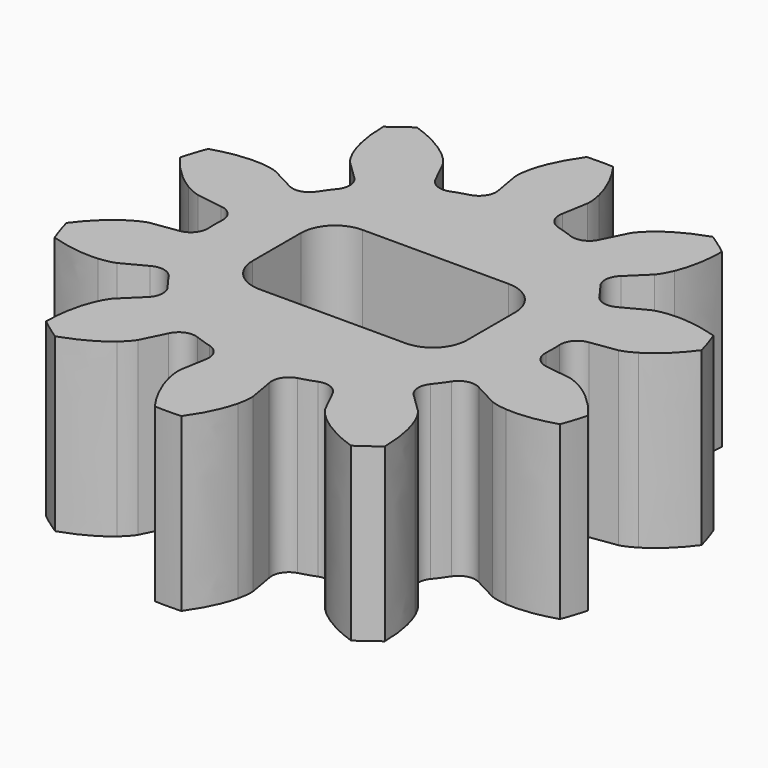
from build123d import *

# Parameters (mm, degrees)
PAD004_DEPTH            = 4
SKETCH009_W             = 3
SKETCH009_H             = 5
POCKET005_DEPTH         = 4.001
FILLET004_R             = 0.8
BODY002_PLACEMENT_ANGLE = 270


with BuildPart() as part:
    # InvoluteGear001 → Pad004 (new body)
    with BuildSketch(Plane.XY):
        with BuildLine():
            Line((4.272524, -0.742137), (4.876889, -0.84619))
            add(Edge.make_bspline(
                [(4.876889, -0.84619), (4.918975, -0.850036), (5.045186, -0.854884), (5.258416, -0.805769)],
                knots=[0, 0, 0, 0, 1, 1, 1, 1], degree=3))
            add(Edge.make_bspline(
                [(5.258416, -0.805769), (5.511581, -0.745593), (5.870271, -0.609625), (6.294091, -0.307696)],
                knots=[0, 0, 0, 0, 1, 1, 1, 1], degree=3))
            ThreePointArc((6.294091, -0.307696), (6.300805, 0.000385), (6.292446, 0.308426))
            add(Edge.make_bspline(
                [(6.292446, 0.308426), (5.870271, 0.609625), (5.511581, 0.745593), (5.258416, 0.805769)],
                knots=[0, 0, 0, 0, 1, 1, 1, 1], degree=3))
            add(Edge.make_bspline(
                [(5.258416, 0.805769), (5.045186, 0.854884), (4.918975, 0.850036), (4.876889, 0.84619)],
                knots=[0, 0, 0, 0, 1, 1, 1, 1], degree=3))
            Line((4.876889, 0.84619), (4.272524, 0.742137))
            ThreePointArc((4.272524, 0.742137), (3.980079, 0.790073), (3.801353, 1.026461))
            ThreePointArc((3.801353, 1.026461), (3.744785, 1.216754), (3.678698, 1.403955))
            ThreePointArc((3.678698, 1.403955), (3.684344, 1.700249), (3.892762, 1.910925))
            Line((3.892762, 1.910925), (4.442864, 2.181981))
            add(Edge.make_bspline(
                [(4.442864, 2.181981), (4.479173, 2.203607), (4.584129, 2.273871), (4.727767, 2.438939)],
                knots=[0, 0, 0, 0, 1, 1, 1, 1], degree=3))
            add(Edge.make_bspline(
                [(4.727767, 2.438939), (4.897212, 2.636429), (5.107478, 2.957262), (5.272886, 3.450643)],
                knots=[0, 0, 0, 0, 1, 1, 1, 1], degree=3))
            ThreePointArc((5.272886, 3.450643), (5.097232, 3.703832), (4.909407, 3.948129))
            add(Edge.make_bspline(
                [(4.909407, 3.948129), (4.39082, 3.943656), (4.020715, 3.842824), (3.780529, 3.7427)],
                knots=[0, 0, 0, 0, 1, 1, 1, 1], degree=3))
            add(Edge.make_bspline(
                [(3.780529, 3.7427), (3.579153, 3.657101), (3.479896, 3.578994), (3.448108, 3.551145)],
                knots=[0, 0, 0, 0, 1, 1, 1, 1], degree=3))
            Line((3.448108, 3.551145), (3.020327, 3.111729))
            ThreePointArc((3.020327, 3.111729), (2.755558, 2.978614), (2.47202, 3.064804))
            ThreePointArc((2.47202, 3.064804), (2.314404, 3.185504), (2.150905, 3.298107))
            ThreePointArc((2.150905, 3.298107), (1.981316, 3.541134), (2.026097, 3.834079))
            Line((2.026097, 3.834079), (2.311816, 4.37671))
            add(Edge.make_bspline(
                [(2.311816, 4.37671), (2.328479, 4.415548), (2.372091, 4.534083), (2.391272, 4.752055)],
                knots=[0, 0, 0, 0, 1, 1, 1, 1], degree=3))
            add(Edge.make_bspline(
                [(2.391272, 4.752055), (2.412273, 5.011425), (2.393801, 5.394575), (2.237618, 5.890953)],
                knots=[0, 0, 0, 0, 1, 1, 1, 1], degree=3))
            ThreePointArc((2.237618, 5.890953), (1.94669, 5.992541), (1.651142, 6.07978))
            add(Edge.make_bspline(
                [(1.651142, 6.07978), (1.234226, 5.771344), (0.994071, 5.472226), (0.858608, 5.250047)],
                knots=[0, 0, 0, 0, 1, 1, 1, 1], degree=3))
            add(Edge.make_bspline(
                [(0.858608, 5.250047), (0.746006, 5.06243), (0.711615, 4.940899), (0.702267, 4.899684)],
                knots=[0, 0, 0, 0, 1, 1, 1, 1], degree=3))
            Line((0.702267, 4.899684), (0.614468, 4.292745))
            ThreePointArc((0.614468, 4.292745), (0.478508, 4.029426), (0.19846, 3.932495))
            ThreePointArc((0.19846, 3.932495), (0, 3.9375), (-0.19846, 3.932495))
            ThreePointArc((-0.19846, 3.932495), (-0.478508, 4.029426), (-0.614468, 4.292745))
            Line((-0.614468, 4.292745), (-0.702267, 4.899684))
            add(Edge.make_bspline(
                [(-0.702267, 4.899684), (-0.711615, 4.940899), (-0.746006, 5.06243), (-0.858608, 5.250047)],
                knots=[0, 0, 0, 0, 1, 1, 1, 1], degree=3))
            add(Edge.make_bspline(
                [(-0.858608, 5.250047), (-0.994071, 5.472226), (-1.234226, 5.771344), (-1.652345, 6.08112)],
                knots=[0, 0, 0, 0, 1, 1, 1, 1], degree=3))
            ThreePointArc((-1.652345, 6.08112), (-1.947422, 5.992303), (-2.237803, 5.889163))
            add(Edge.make_bspline(
                [(-2.237803, 5.889163), (-2.393801, 5.394575), (-2.412273, 5.011425), (-2.391272, 4.752055)],
                knots=[0, 0, 0, 0, 1, 1, 1, 1], degree=3))
            add(Edge.make_bspline(
                [(-2.391272, 4.752055), (-2.372091, 4.534083), (-2.328479, 4.415548), (-2.311816, 4.37671)],
                knots=[0, 0, 0, 0, 1, 1, 1, 1], degree=3))
            Line((-2.311816, 4.37671), (-2.026097, 3.834079))
            ThreePointArc((-2.026097, 3.834079), (-1.981316, 3.541134), (-2.150905, 3.298107))
            ThreePointArc((-2.150905, 3.298107), (-2.314404, 3.185504), (-2.47202, 3.064804))
            ThreePointArc((-2.47202, 3.064804), (-2.755558, 2.978614), (-3.020327, 3.111729))
            Line((-3.020327, 3.111729), (-3.448108, 3.551145))
            add(Edge.make_bspline(
                [(-3.448108, 3.551145), (-3.479896, 3.578994), (-3.579153, 3.657101), (-3.780529, 3.7427)],
                knots=[0, 0, 0, 0, 1, 1, 1, 1], degree=3))
            add(Edge.make_bspline(
                [(-3.780529, 3.7427), (-4.020715, 3.842824), (-4.39082, 3.943656), (-4.911168, 3.948506)],
                knots=[0, 0, 0, 0, 1, 1, 1, 1], degree=3))
            ThreePointArc((-4.911168, 3.948506), (-5.097685, 3.703209), (-5.271984, 3.449085))
            add(Edge.make_bspline(
                [(-5.271984, 3.449085), (-5.107478, 2.957262), (-4.897212, 2.636429), (-4.727767, 2.438939)],
                knots=[0, 0, 0, 0, 1, 1, 1, 1], degree=3))
            add(Edge.make_bspline(
                [(-4.727767, 2.438939), (-4.584129, 2.273871), (-4.479173, 2.203607), (-4.442864, 2.181981)],
                knots=[0, 0, 0, 0, 1, 1, 1, 1], degree=3))
            Line((-4.442864, 2.181981), (-3.892762, 1.910925))
            ThreePointArc((-3.892762, 1.910925), (-3.684344, 1.700249), (-3.678698, 1.403955))
            ThreePointArc((-3.678698, 1.403955), (-3.744785, 1.216754), (-3.801353, 1.026461))
            ThreePointArc((-3.801353, 1.026461), (-3.980079, 0.790073), (-4.272524, 0.742137))
            Line((-4.272524, 0.742137), (-4.876889, 0.84619))
            add(Edge.make_bspline(
                [(-4.876889, 0.84619), (-4.918975, 0.850036), (-5.045186, 0.854884), (-5.258416, 0.805769)],
                knots=[0, 0, 0, 0, 1, 1, 1, 1], degree=3))
            add(Edge.make_bspline(
                [(-5.258416, 0.805769), (-5.511581, 0.745593), (-5.870271, 0.609625), (-6.294091, 0.307696)],
                knots=[0, 0, 0, 0, 1, 1, 1, 1], degree=3))
            ThreePointArc((-6.294091, 0.307696), (-6.300805, -0.000385), (-6.292446, -0.308426))
            add(Edge.make_bspline(
                [(-6.292446, -0.308426), (-5.870271, -0.609625), (-5.511581, -0.745593), (-5.258416, -0.805769)],
                knots=[0, 0, 0, 0, 1, 1, 1, 1], degree=3))
            add(Edge.make_bspline(
                [(-5.258416, -0.805769), (-5.045186, -0.854884), (-4.918975, -0.850036), (-4.876889, -0.84619)],
                knots=[0, 0, 0, 0, 1, 1, 1, 1], degree=3))
            Line((-4.876889, -0.84619), (-4.272524, -0.742137))
            ThreePointArc((-4.272524, -0.742137), (-3.980079, -0.790073), (-3.801353, -1.026461))
            ThreePointArc((-3.801353, -1.026461), (-3.744785, -1.216754), (-3.678698, -1.403955))
            ThreePointArc((-3.678698, -1.403955), (-3.684344, -1.700249), (-3.892762, -1.910925))
            Line((-3.892762, -1.910925), (-4.442864, -2.181981))
            add(Edge.make_bspline(
                [(-4.442864, -2.181981), (-4.479173, -2.203607), (-4.584129, -2.273871), (-4.727767, -2.438939)],
                knots=[0, 0, 0, 0, 1, 1, 1, 1], degree=3))
            add(Edge.make_bspline(
                [(-4.727767, -2.438939), (-4.897212, -2.636429), (-5.107478, -2.957262), (-5.272886, -3.450643)],
                knots=[0, 0, 0, 0, 1, 1, 1, 1], degree=3))
            ThreePointArc((-5.272886, -3.450643), (-5.097232, -3.703832), (-4.909407, -3.948129))
            add(Edge.make_bspline(
                [(-4.909407, -3.948129), (-4.39082, -3.943656), (-4.020715, -3.842824), (-3.780529, -3.7427)],
                knots=[0, 0, 0, 0, 1, 1, 1, 1], degree=3))
            add(Edge.make_bspline(
                [(-3.780529, -3.7427), (-3.579153, -3.657101), (-3.479896, -3.578994), (-3.448108, -3.551145)],
                knots=[0, 0, 0, 0, 1, 1, 1, 1], degree=3))
            Line((-3.448108, -3.551145), (-3.020327, -3.111729))
            ThreePointArc((-3.020327, -3.111729), (-2.755558, -2.978614), (-2.47202, -3.064804))
            ThreePointArc((-2.47202, -3.064804), (-2.314404, -3.185504), (-2.150905, -3.298107))
            ThreePointArc((-2.150905, -3.298107), (-1.981316, -3.541134), (-2.026097, -3.834079))
            Line((-2.026097, -3.834079), (-2.311816, -4.37671))
            add(Edge.make_bspline(
                [(-2.311816, -4.37671), (-2.328479, -4.415548), (-2.372091, -4.534083), (-2.391272, -4.752055)],
                knots=[0, 0, 0, 0, 1, 1, 1, 1], degree=3))
            add(Edge.make_bspline(
                [(-2.391272, -4.752055), (-2.412273, -5.011425), (-2.393801, -5.394575), (-2.237618, -5.890953)],
                knots=[0, 0, 0, 0, 1, 1, 1, 1], degree=3))
            ThreePointArc((-2.237618, -5.890953), (-1.94669, -5.992541), (-1.651142, -6.07978))
            add(Edge.make_bspline(
                [(-1.651142, -6.07978), (-1.234226, -5.771344), (-0.994071, -5.472226), (-0.858608, -5.250047)],
                knots=[0, 0, 0, 0, 1, 1, 1, 1], degree=3))
            add(Edge.make_bspline(
                [(-0.858608, -5.250047), (-0.746006, -5.06243), (-0.711615, -4.940899), (-0.702267, -4.899684)],
                knots=[0, 0, 0, 0, 1, 1, 1, 1], degree=3))
            Line((-0.702267, -4.899684), (-0.614468, -4.292745))
            ThreePointArc((-0.614468, -4.292745), (-0.478508, -4.029426), (-0.19846, -3.932495))
            ThreePointArc((-0.19846, -3.932495), (0, -3.9375), (0.19846, -3.932495))
            ThreePointArc((0.19846, -3.932495), (0.478508, -4.029426), (0.614468, -4.292745))
            Line((0.614468, -4.292745), (0.702267, -4.899684))
            add(Edge.make_bspline(
                [(0.702267, -4.899684), (0.711615, -4.940899), (0.746006, -5.06243), (0.858608, -5.250047)],
                knots=[0, 0, 0, 0, 1, 1, 1, 1], degree=3))
            add(Edge.make_bspline(
                [(0.858608, -5.250047), (0.994071, -5.472226), (1.234226, -5.771344), (1.652345, -6.08112)],
                knots=[0, 0, 0, 0, 1, 1, 1, 1], degree=3))
            ThreePointArc((1.652345, -6.08112), (1.947422, -5.992303), (2.237803, -5.889163))
            add(Edge.make_bspline(
                [(2.237803, -5.889163), (2.393801, -5.394575), (2.412273, -5.011425), (2.391272, -4.752055)],
                knots=[0, 0, 0, 0, 1, 1, 1, 1], degree=3))
            add(Edge.make_bspline(
                [(2.391272, -4.752055), (2.372091, -4.534083), (2.328479, -4.415548), (2.311816, -4.37671)],
                knots=[0, 0, 0, 0, 1, 1, 1, 1], degree=3))
            Line((2.311816, -4.37671), (2.026097, -3.834079))
            ThreePointArc((2.026097, -3.834079), (1.981316, -3.541134), (2.150905, -3.298107))
            ThreePointArc((2.150905, -3.298107), (2.314404, -3.185504), (2.47202, -3.064804))
            ThreePointArc((2.47202, -3.064804), (2.755558, -2.978614), (3.020327, -3.111729))
            Line((3.020327, -3.111729), (3.448108, -3.551145))
            add(Edge.make_bspline(
                [(3.448108, -3.551145), (3.479896, -3.578994), (3.579153, -3.657101), (3.780529, -3.7427)],
                knots=[0, 0, 0, 0, 1, 1, 1, 1], degree=3))
            add(Edge.make_bspline(
                [(3.780529, -3.7427), (4.020715, -3.842824), (4.39082, -3.943656), (4.911168, -3.948506)],
                knots=[0, 0, 0, 0, 1, 1, 1, 1], degree=3))
            ThreePointArc((4.911168, -3.948506), (5.097685, -3.703209), (5.271984, -3.449085))
            add(Edge.make_bspline(
                [(5.271984, -3.449085), (5.107478, -2.957262), (4.897212, -2.636429), (4.727767, -2.438939)],
                knots=[0, 0, 0, 0, 1, 1, 1, 1], degree=3))
            add(Edge.make_bspline(
                [(4.727767, -2.438939), (4.584129, -2.273871), (4.479173, -2.203607), (4.442864, -2.181981)],
                knots=[0, 0, 0, 0, 1, 1, 1, 1], degree=3))
            Line((4.442864, -2.181981), (3.892762, -1.910925))
            ThreePointArc((3.892762, -1.910925), (3.684344, -1.700249), (3.678698, -1.403955))
            ThreePointArc((3.678698, -1.403955), (3.744785, -1.216754), (3.801353, -1.026461))
            ThreePointArc((3.801353, -1.026461), (3.980079, -0.790073), (4.272524, -0.742137))
        make_face()
    extrude(amount=PAD004_DEPTH)

    # Sketch009 (on Face102 of Pad004) → Pocket005 (cut, through all)
    with BuildSketch(Plane.XY.offset(4)):
        Rectangle(SKETCH009_W, SKETCH009_H)
    extrude(amount=-POCKET005_DEPTH, mode=Mode.SUBTRACT)

    # Fillet004
    fillet004_edges = [part.edges().sort_by_distance(p)[0] for p in [
        (1.5, -2.5, 2),
        (1.5, 2.5, 2),
        (-1.5, 2.5, 2),
        (-1.5, -2.5, 2),
    ]]
    fillet(fillet004_edges, radius=FILLET004_R)


with BuildPart() as part_1:
    # Body002 placement: moved
    add(part.part.moved(Location((-8, -61, 5))).rotate(Axis((-8, -61, 5), (0, 0, 1)), BODY002_PLACEMENT_ANGLE))


solid = part_1.part
